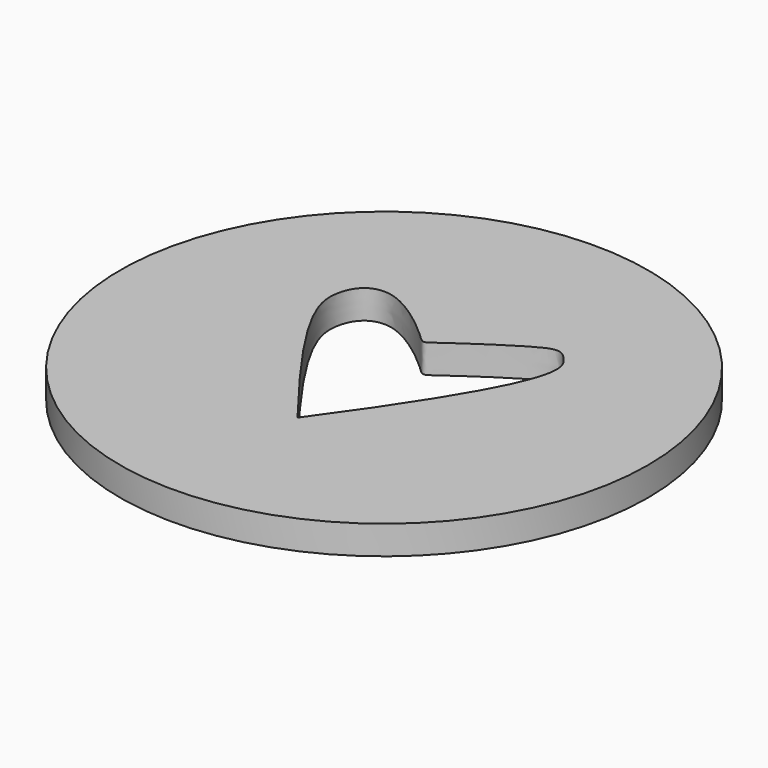
from build123d import *

# Parameters (mm, degrees)
SKETCH_R      = 36.744607
EXTRUDE_DEPTH = 4


with BuildPart() as part:
    # Sketch → Extrude (new body)
    with BuildSketch(Plane.XY):
        Circle(SKETCH_R)
        with BuildLine():
            add(Edge.make_bspline(
                [(0, -15.0691), (-14.1728, 3.19257), (-16.4556, 11.4103), (-10.8249, 16.1279), (0, 7.149267), (-0.992524, 7.027215), (11.2413, 15.367), (13.524, 15.2148), (17.3285, 8.82325), (0, -15.0691)],
                knots=[0, 0, 0, 0, 0.142857, 0.285714, 0.428571, 0.571429, 0.714286, 0.857143, 1, 1, 1, 1], degree=3))
        make_face(mode=Mode.SUBTRACT)
    extrude(amount=EXTRUDE_DEPTH)


solid = part.part
